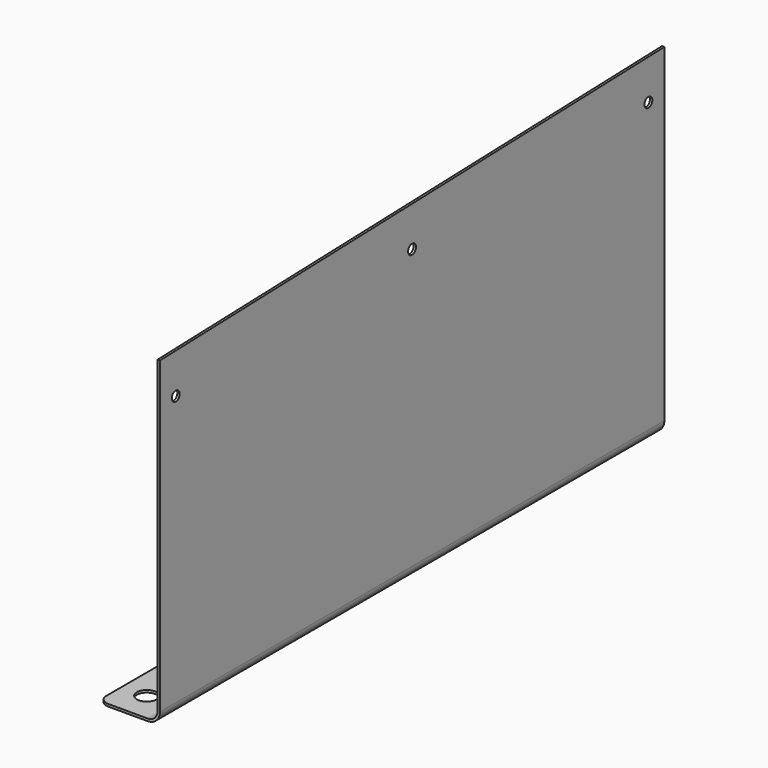
from build123d import *

# Parameters (mm, degrees)
F1_DEPTH = 320
F2_R     = 5
F3_DEPTH = 1.2
F4_R     = 5
F6_DEPTH = 1.2
F7_R     = 2.5
F8_DEPTH = 2


with BuildPart() as f1:
    # F0 (on Front) → F1 (new body)
    with BuildSketch(Plane.XZ):
        with BuildLine():
            Line((1.2, 0), (0, 0))
            Line((0, 0), (0, -167))
            ThreePointArc((0, -167), (-1.464466, -170.535534), (-5, -172))
            Line((-5, -172), (-30, -172))
            Line((-30, -172), (-30, -173.2))
            Line((-30, -173.2), (-5, -173.2))
            ThreePointArc((-5, -173.2), (-0.615938, -171.384062), (1.2, -167))
            Line((1.2, -167), (1.2, 0))
        make_face()
    extrude(amount=-F1_DEPTH)

    # F2 (on face) → F3 (cut, through all)
    with BuildSketch(Plane.XY.offset(-172)):
        with Locations((-17.5, 305)):
            Circle(F2_R)
        with Locations((-17.5, 15)):
            Circle(F2_R)
    extrude(amount=-F3_DEPTH, mode=Mode.SUBTRACT)

    # F4
    f4_edges = [f1.edges().sort_by_distance(p)[0] for p in [
        (-30, 320, -172.6),
        (-30, 0, -172.6),
    ]]
    fillet(f4_edges, radius=F4_R)

    # F5 (on face) → F6 (cut, through all)
    with BuildSketch(Plane(origin=(0, 0, 0), x_dir=(0, -1, 0), z_dir=(-1, 0, 0))):
        Polygon((0, 0), (-320, 0), (0, -10), align=None)
    extrude(amount=-F6_DEPTH, mode=Mode.SUBTRACT)

    # F7 (on face) → F8 (cut)
    with BuildSketch(Plane.YZ.offset(1.2)):
        with Locations((10, -30)):
            Circle(F7_R)
        with Locations((159.926811, -25.314787)):
            Circle(F7_R)
        with Locations((309.853623, -20.629574)):
            Circle(F7_R)
    extrude(amount=-F8_DEPTH, mode=Mode.SUBTRACT)


solid = f1.part
